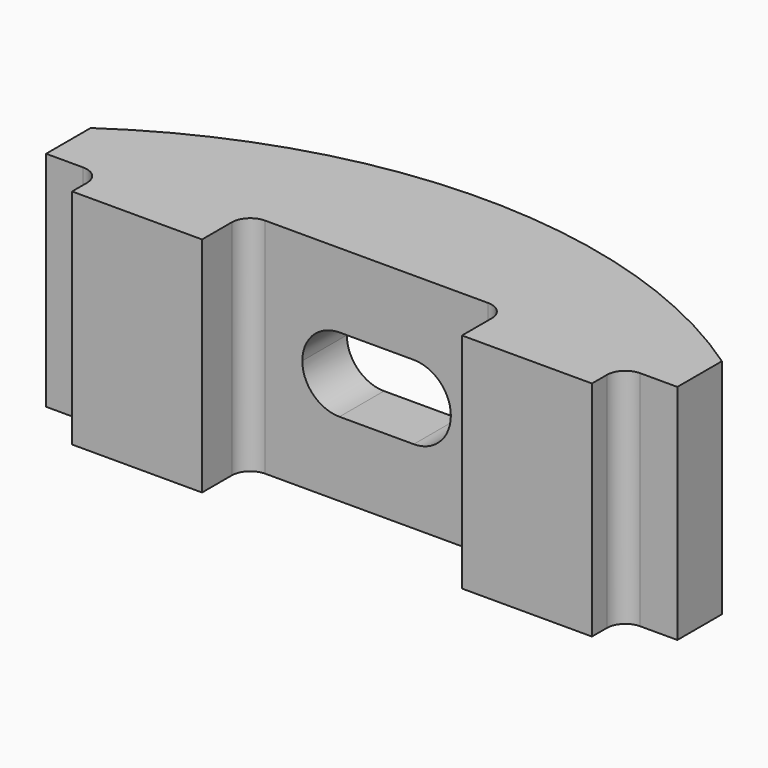
from build123d import *

# Parameters (mm, degrees)
F0_W      = 170
F0_H      = 60
F1_DEPTH  = 30
F2_W      = 70
F2_H      = 30
F3_DEPTH  = 59.69157
F4_R      = 5
F6_DEPTH  = 60.001
F7_W      = 57.5
F7_H      = 5
F8_DEPTH  = 60.001
F10_DEPTH = 6
F13_DEPTH = 30.001


with BuildPart() as f1:
    # F0 (on Front) → F1 (new body)
    with BuildSketch(Plane.XZ):
        Rectangle(F0_W, F0_H)
    extrude(amount=F1_DEPTH)

    # F2 (on Top) → F3 (cut, symmetric)
    with BuildSketch(Plane.XY):
        with Locations((0, -30)):
            Rectangle(F2_W, F2_H)
    extrude(amount=F3_DEPTH, both=True, mode=Mode.SUBTRACT)

    # F4
    f4_edges = [f1.edges().sort_by_distance(p)[0] for p in [
        (35, -15, 0),
        (-35, -15, 0),
    ]]
    fillet(f4_edges, radius=F4_R)

    # F5 (on face) → F6 (cut, through all)
    with BuildSketch(Plane.XY.offset(30)):
        with BuildLine():
            Line((70, -30), (85, -30))
            Line((85, -30), (85, -20))
            Line((85, -20), (75, -20))
            ThreePointArc((75, -20), (71.464466, -21.464466), (70, -25))
            Line((70, -25), (70, -30))
        make_face()
        with BuildLine():
            Line((-85, -20), (-85, -30))
            Line((-85, -30), (-70, -30))
            Line((-70, -30), (-70, -25))
            ThreePointArc((-70, -25), (-71.464466, -21.464466), (-75, -20))
            Line((-75, -20), (-85, -20))
        make_face()
    extrude(amount=-F6_DEPTH, mode=Mode.SUBTRACT)

    # F7 (on face) → F8 (cut, through all)
    with BuildSketch(Plane.XY.offset(30)):
        with Locations((56.25, -2.5)):
            Rectangle(F7_W, F7_H)
        with Locations((-56.25, -2.5)):
            Rectangle(F7_W, F7_H)
    extrude(amount=-F8_DEPTH, mode=Mode.SUBTRACT)

    # F9 (on face) → F10 (join)
    with BuildSketch(Plane.XY.offset(30)):
        with BuildLine():
            Line((27.5, -5), (85, -5))
            ThreePointArc((85, -5), (0, 21.407929), (-85, -5))
            Line((-85, -5), (-27.5, -5))
            Line((-27.5, -5), (-27.5, 0))
            Line((-27.5, 0), (27.5, 0))
            Line((27.5, 0), (27.5, -5))
        make_face()
    extrude(amount=-F10_DEPTH)

    # F11: F1 across plane


with BuildPart() as f1_1:
    add(f1.part)
    add(f1.part.mirror(Plane.XY))

    # F12 (on face) → F13 (cut, through all)
    with BuildSketch(Plane(origin=(0, 0, 0), x_dir=(-1, 0, 0), z_dir=(0, 1, 0))):
        with BuildLine():
            ThreePointArc((20, 0), (17.071068, 7.071068), (10, 10))
            Line((10, 10), (-10, 10))
            ThreePointArc((-10, 10), (-17.071068, 7.071068), (-20, 0))
            ThreePointArc((-20, 0), (-17.071068, -7.071068), (-10, -10))
            Line((-10, -10), (10, -10))
            ThreePointArc((10, -10), (17.071068, -7.071068), (20, 0))
        make_face()
    extrude(amount=-F13_DEPTH, mode=Mode.SUBTRACT)


solid = f1_1.part
